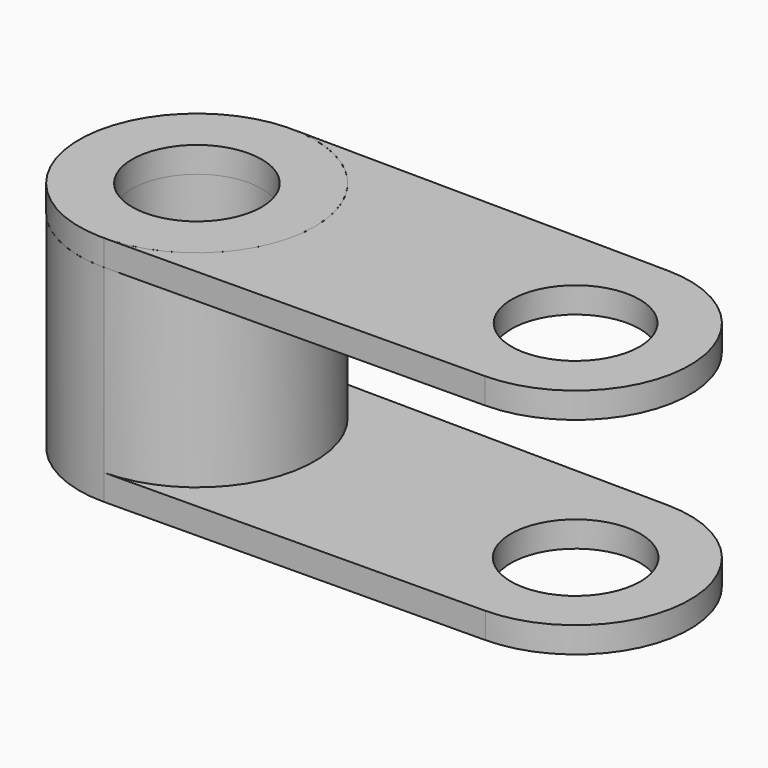
from build123d import *

# Parameters (mm, degrees)
F0_R        = 15.920661
F1_DEPTH    = 50.8
F2_DEPTH    = 6.35
F3_R        = 15.735367
F4_DEPTH    = 6.35
F1_FACE_R   = 28.974796
F1_FACE_R_2 = 15.920661
F5_DEPTH    = 6.35


with BuildPart() as f1:
    # F0 (on Top) → F1 (new body)
    with BuildSketch(Plane.XY):
        with BuildLine():
            ThreePointArc((-46.308367, -28.973528), (-17.604609, 0), (-46.308367, 28.973528))
            ThreePointArc((-46.308367, 28.973528), (-75.554202, 0), (-46.308367, -28.973528))
        make_face()
        with Locations((-46.579406, 0)):
            Circle(F0_R, mode=Mode.SUBTRACT)
    extrude(amount=F1_DEPTH)

    # F0 (on Top) → F2 (join)
    with BuildSketch(Plane.XY):
        with BuildLine():
            Line((46.842293, 28.102132), (-46.308367, 28.973528))
            ThreePointArc((-46.308367, 28.973528), (-17.604609, 0), (-46.308367, -28.973528))
            Line((-46.308367, -28.973528), (46.842293, -28.102132))
            ThreePointArc((46.842293, -28.102132), (74.682768, 0), (46.842293, 28.102132))
        make_face()
        with Locations((46.579406, 0)):
            Circle(F0_R, mode=Mode.SUBTRACT)
    extrude(amount=F2_DEPTH)


with BuildPart() as f4:
    # F3 (on face) → F4 (new body)
    with BuildSketch(Plane.XY.offset(50.8)):
        with BuildLine():
            Line((46.83423, 28.101848), (-45.523093, 28.955535))
            ThreePointArc((-45.523093, 28.955535), (-25.721011, 20.111345), (-17.604609, 0))
            ThreePointArc((-17.604609, 0), (-25.995196, -20.391889), (-46.307426, -28.97352))
            Line((-46.307426, -28.97352), (46.839207, -28.113717))
            ThreePointArc((46.839207, -28.113717), (74.688712, -0.003469), (46.83423, 28.101848))
        make_face()
        with Locations((46.579755, -0.005957)):
            Circle(F3_R, mode=Mode.SUBTRACT)
    extrude(amount=F4_DEPTH)


with BuildPart() as f5:
    # F1_face (on face) → F5 (new body)
    with BuildSketch(Plane(origin=(-46.579406, 0, 50.8), x_dir=(1, 0, 0), z_dir=(0, 0, 1))):
        Circle(F1_FACE_R)
        Circle(F1_FACE_R_2, mode=Mode.SUBTRACT)
    extrude(amount=F5_DEPTH)


solid = Compound([f1.part, f4.part, f5.part])
